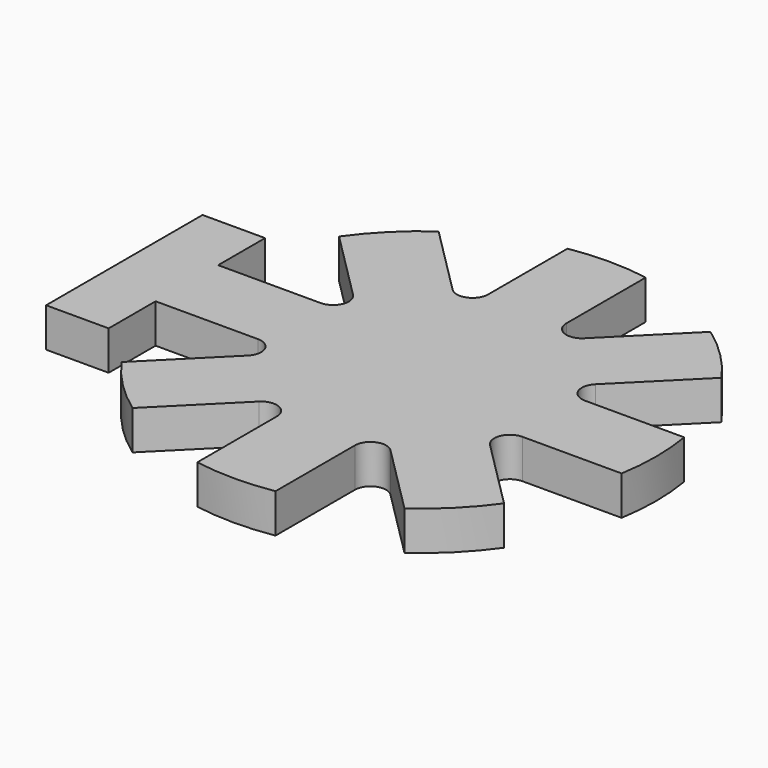
from build123d import *

# Parameters (mm, degrees)
F1_DEPTH = 0.5


with BuildPart() as f1:
    # F0 (on Top) → F1 (new body)
    with BuildSketch(Plane.XY):
        with BuildLine():
            Line((0.5, 1.689949), (0.5, 2.95804))
            ThreePointArc((0.5, 2.95804), (0, 3), (-0.5, 2.95804))
            Line((-0.5, 2.95804), (-0.5, 1.689949))
            ThreePointArc((-0.5, 1.689949), (-0.623463, 1.505174), (-0.841421, 1.548528))
            Line((-0.841421, 1.548528), (-1.738097, 2.445203))
            ThreePointArc((-1.738097, 2.445203), (-2.12132, 2.12132), (-2.445203, 1.738097))
            Line((-2.445203, 1.738097), (-1.548528, 0.841421))
            ThreePointArc((-1.548528, 0.841421), (-1.505174, 0.623463), (-1.689949, 0.5))
            Line((-1.689949, 0.5), (-3, 0.5))
            Line((-3, 0.5), (-3, 1.25))
            Line((-3, 1.25), (-3.8, 1.25))
            Line((-3.8, 1.25), (-3.8, -1.25))
            Line((-3.8, -1.25), (-3, -1.25))
            Line((-3, -1.25), (-3, -0.5))
            Line((-3, -0.5), (-1.689949, -0.5))
            ThreePointArc((-1.689949, -0.5), (-1.505174, -0.623463), (-1.548528, -0.841421))
            Line((-1.548528, -0.841421), (-2.445203, -1.738097))
            ThreePointArc((-2.445203, -1.738097), (-2.12132, -2.12132), (-1.738097, -2.445203))
            Line((-1.738097, -2.445203), (-0.841421, -1.548528))
            ThreePointArc((-0.841421, -1.548528), (-0.623463, -1.505174), (-0.5, -1.689949))
            Line((-0.5, -1.689949), (-0.5, -2.95804))
            ThreePointArc((-0.5, -2.95804), (0, -3), (0.5, -2.95804))
            Line((0.5, -2.95804), (0.5, -1.689949))
            ThreePointArc((0.5, -1.689949), (0.623463, -1.505174), (0.841421, -1.548528))
            Line((0.841421, -1.548528), (1.738097, -2.445203))
            ThreePointArc((1.738097, -2.445203), (2.12132, -2.12132), (2.445203, -1.738097))
            Line((2.445203, -1.738097), (1.548528, -0.841421))
            ThreePointArc((1.548528, -0.841421), (1.505174, -0.623463), (1.689949, -0.5))
            Line((1.689949, -0.5), (2.95804, -0.5))
            ThreePointArc((2.95804, -0.5), (3, 0), (2.95804, 0.5))
            Line((2.95804, 0.5), (1.689949, 0.5))
            ThreePointArc((1.689949, 0.5), (1.505174, 0.623463), (1.548528, 0.841421))
            Line((1.548528, 0.841421), (2.445203, 1.738097))
            ThreePointArc((2.445203, 1.738097), (2.12132, 2.12132), (1.738097, 2.445203))
            Line((1.738097, 2.445203), (0.841421, 1.548528))
            ThreePointArc((0.841421, 1.548528), (0.623463, 1.505174), (0.5, 1.689949))
        make_face()
    extrude(amount=F1_DEPTH)


solid = f1.part
